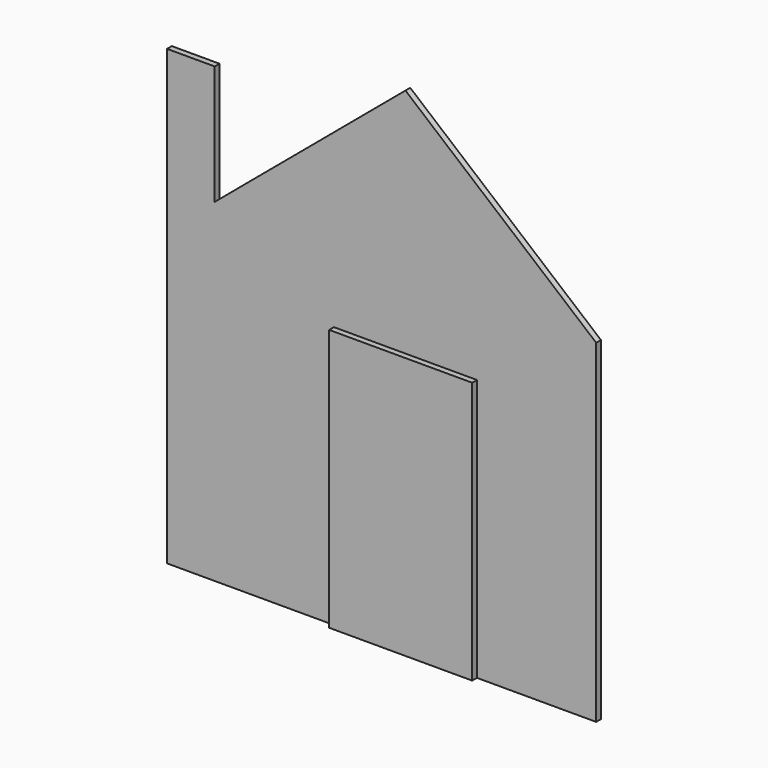
from build123d import *

# Parameters (mm, degrees)
F0_W     = 609.6
F0_H     = 1117.6
F1_DEPTH = 50.8
F0_W_2   = 203.2
F0_H_2   = 508
F2_DEPTH = 25.4


with BuildPart() as f1:
    # F0 (on Front) → F1 (new body)
    with BuildSketch(Plane.XZ):
        with Locations((101.6, 711.2)):
            Rectangle(F0_W, F0_H)
    extrude(amount=F1_DEPTH)


with BuildPart() as f2:
    # F0 (on Front) → F2 (new body)
    with BuildSketch(Plane.XZ):
        Polygon((914.4, 152.4), (914.4, 1574.8), (-711.2, 1574.8), (-914.4, 1574.8), (-914.4, 152.4), (-203.2, 152.4), (-203.2, 1270), (406.4, 1270), (406.4, 152.4), align=None)
        Polygon((-711.2, 1574.8), (914.4, 1574.8), (101.6, 2256.82018), align=None)
        with Locations((-812.8, 1828.8)):
            Rectangle(F0_W_2, F0_H_2)
        with Locations((101.6, 711.2)):
            Rectangle(F0_W, F0_H)
    extrude(amount=F2_DEPTH)


solid = Compound([f1.part, f2.part])
